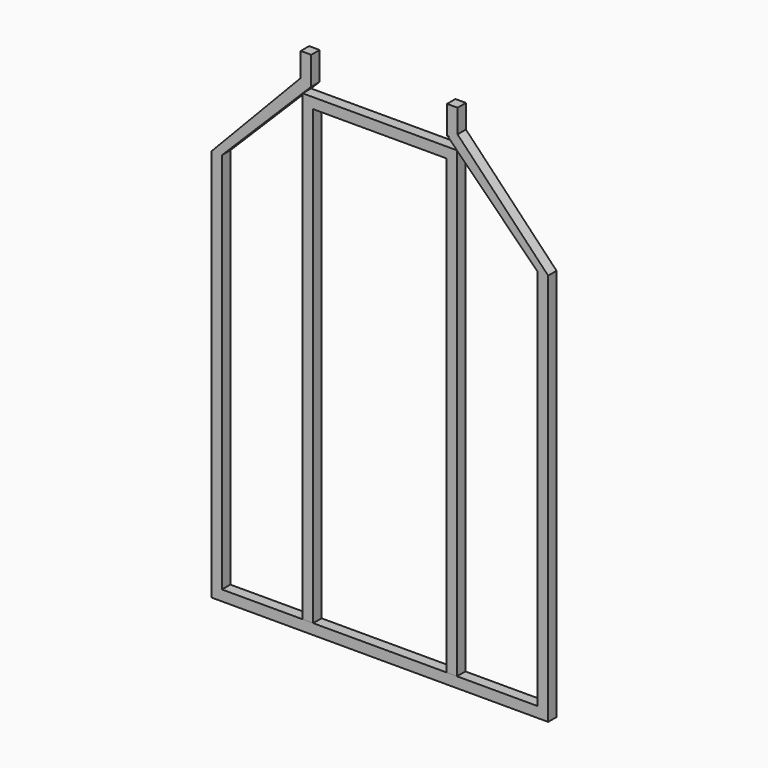
from build123d import *

# Parameters (mm, degrees)
F0_W     = 19.05
F0_H     = 692.15
F1_DEPTH = 19.05
F2_W     = 19.05
F2_H     = 819.15
F3_DEPTH = 19.05
F4_T     = -1.5875


with BuildPart() as f1:
    # F0 (on Front) → F1 (new body)
    with BuildSketch(Plane.XZ):
        Polygon((-201.3746880207, 460.3546897234), (-363.0192981999, 291.0755020554), (-343.9692981999, 291.0755020554), (-182.3246880207, 452.7201122347), (-201.3746880207, 452.7201122347), align=None)
        Polygon((-343.9692981999, 291.0755020554), (-363.0192981999, 291.0755020554), (-363.0192981999, -420.1244979446), (-343.9692981999, -420.1244979446), (-343.9692981999, -401.0744979446), align=None)
        Polygon((-201.3746880207, 503.5201122347), (-201.3746880207, 460.3546897234), (-196.1021746691, 465.8762272256), (-182.3246880207, 452.7201122347), (-182.3246880207, 503.5201122347), align=None)
        Polygon((-196.1021746691, 465.8762272256), (-201.3746880207, 460.3546897234), (-201.3746880207, 452.7201122347), (-182.3246880207, 452.7201122347), align=None)
        Polygon((227.5307018001, -401.0744979446), (-343.9692981999, -401.0744979446), (-343.9692981999, -420.1244979446), (246.5807018001, -420.1244979446), (246.5807018001, -401.0744979446), align=None)
        with Locations((237.0557018001, -54.9994979446)):
            Rectangle(F0_W, F0_H)
        Polygon((65.8860916208, 452.7201122347), (227.5307018001, 291.0755020554), (246.5807018001, 291.0755020554), (82.5360768914, 462.8680586711), (82.5360768914, 454.5575380325), (67.8103002048, 454.5575380325), align=None)
        Polygon((82.5360768914, 454.5575380325), (82.5360768914, 462.8680586711), (79.6635782692, 465.8762272256), (67.8103002048, 454.5575380325), align=None)
        Polygon((79.6635782692, 465.8762272256), (82.5360768914, 462.8680586711), (82.5360768914, 505.3575380325), (63.4860768914, 505.3575380325), (63.4860768914, 454.5575380325), (67.8103002048, 454.5575380325), align=None)
    extrude(amount=F1_DEPTH)

    # F4 (hollow: no face is removed)
    offset(amount=F4_T, kind=Kind.INTERSECTION, mode=Mode.SUBTRACT)


with BuildPart() as f3:
    # F2 (on Front) → F3 (new body)
    with BuildSketch(Plane.XZ):
        Polygon((81.4807018001, 437.1255020554), (-197.9192981999, 437.1255020554), (-197.9192981999, 418.0755020554), (-178.8692981999, 418.0755020554), (62.4307018001, 418.0755020554), (81.4807018001, 418.0755020554), align=None)
        with Locations((-188.3942981999, 8.5005020554)):
            Rectangle(F2_W, F2_H)
        with Locations((71.9557018001, 8.5005020554)):
            Rectangle(F2_W, F2_H)
    extrude(amount=F3_DEPTH)

    # F4#2 (hollow: no face is removed)
    offset(amount=F4_T, kind=Kind.INTERSECTION, mode=Mode.SUBTRACT)


solid = Compound([f1.part, f3.part])
